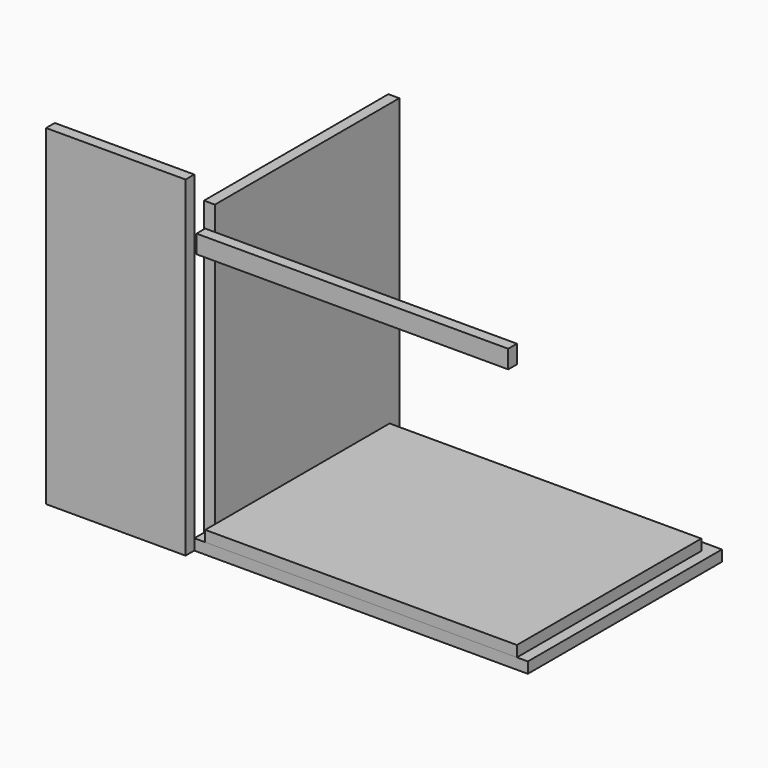
from build123d import *

# Parameters (mm, degrees)
F0_W     = 550
F0_H     = 400
F1_DEPTH = 18
F2_W     = 18
F2_H     = 380
F3_DEPTH = 482
F4_W     = 514
F4_H     = 30
F5_DEPTH = 18
F6_W     = 514
F6_H     = 380
F7_DEPTH = 18
F8_W     = 230
F8_H     = 546
F9_DEPTH = 18


with BuildPart() as f1:
    # F0 (on Top) → F1 (new body)
    with BuildSketch(Plane.XY):
        with Locations((275, 200)):
            Rectangle(F0_W, F0_H)
    extrude(amount=F1_DEPTH)


with BuildPart() as f3:
    # F2 (on face) → F3 (new body)
    with BuildSketch(Plane.XY.offset(18)):
        with Locations((9, 210)):
            Rectangle(F2_W, F2_H)
    extrude(amount=F3_DEPTH)


with BuildPart() as f5:
    # F4 (on Front) → F5 (new body)
    with BuildSketch(Plane.XZ):
        with Locations((275, 458.392456)):
            Rectangle(F4_W, F4_H)
    extrude(amount=F5_DEPTH)


with BuildPart() as f7:
    # F6 (on face) → F7 (new body)
    with BuildSketch(Plane.XY.offset(18)):
        with Locations((275, 190)):
            Rectangle(F6_W, F6_H)
    extrude(amount=F7_DEPTH)


with BuildPart() as f9:
    # F8 (on Front) → F9 (new body)
    with BuildSketch(Plane.XZ):
        with Locations((-115, 273)):
            Rectangle(F8_W, F8_H)
    extrude(amount=F9_DEPTH)


solid = Compound([f1.part, f3.part, f5.part, f7.part, f9.part])
